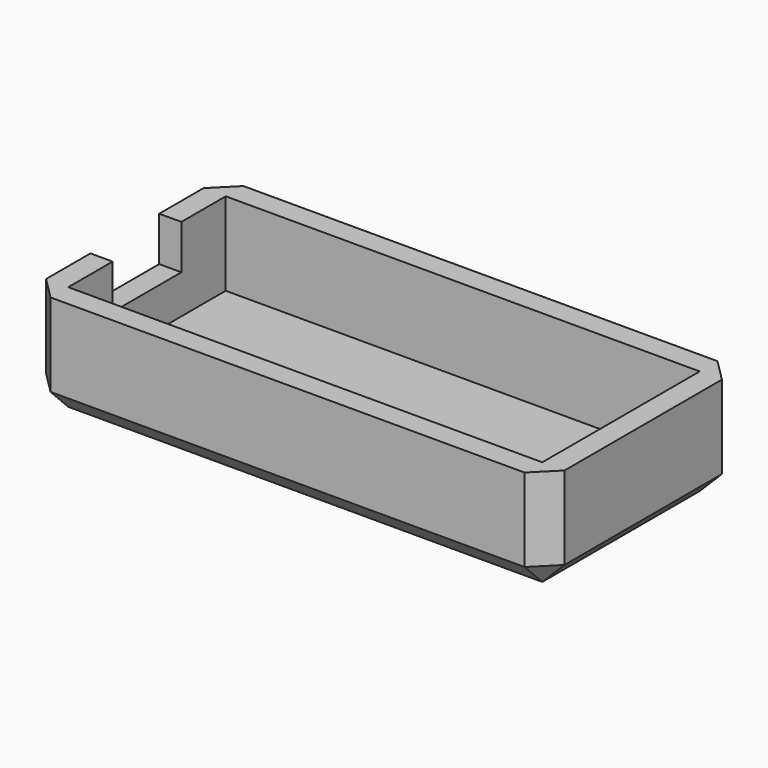
from build123d import *

# Parameters (mm, degrees)
F0_W     = 47.498
F0_H     = 22.098
F1_DEPTH = 9.652
F3_DEPTH = 7.62
F4_SIZE  = 2.032
F5_W     = 2.032
F5_H     = 7.874
F6_DEPTH = 4.064


with BuildPart() as f1:
    # F0 (on Top) → F1 (new body)
    with BuildSketch(Plane.XY):
        Rectangle(F0_W, F0_H)
    extrude(amount=F1_DEPTH)

    # F2 (on face) → F3 (cut)
    with BuildSketch(Plane.XY.offset(9.652)):
        Polygon((21.717, 9.017), (-21.717, 9.017), (-21.717, 4.28625), (-21.717, -4.28625), (-21.717, -9.017), (21.717, -9.017), align=None)
    extrude(amount=-F3_DEPTH, mode=Mode.SUBTRACT)

    # F4
    f4_edges = [f1.edges().sort_by_distance(p)[0] for p in [
        (0, -11.049, 0),
        (23.749, 0, 0),
        (23.749, -11.049, 4.826),
        (23.749, 11.049, 4.826),
        (-23.749, 0, 0),
        (0, 11.049, 0),
        (-23.749, -11.049, 4.826),
        (-23.749, 11.049, 4.826),
    ]]
    chamfer(f4_edges, length=F4_SIZE)

    # F5 (on face) → F6 (cut)
    with BuildSketch(Plane.XY.offset(9.652)):
        with Locations((-22.733, 0)):
            Rectangle(F5_W, F5_H)
    extrude(amount=-F6_DEPTH, mode=Mode.SUBTRACT)


solid = f1.part
